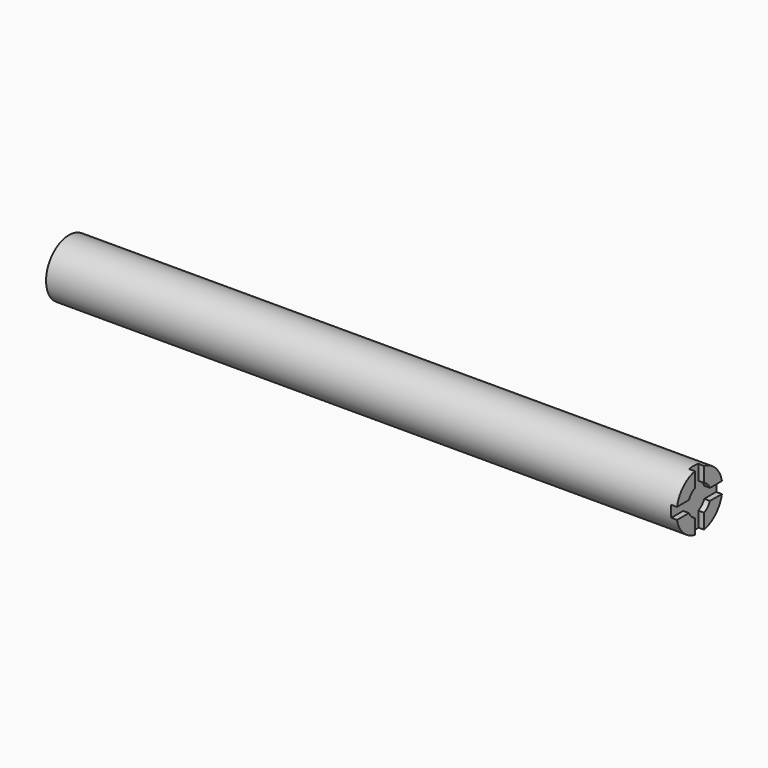
from build123d import *

# Parameters (mm, degrees)
F0_R     = 12.7
F1_DEPTH = 279.4
F3_DEPTH = 2.54


with BuildPart() as f1:
    # F0 (on Right) → F1 (new body)
    with BuildSketch(Plane.YZ):
        Circle(F0_R)
    extrude(amount=F1_DEPTH)

    # F2 (on face) → F3 (cut)
    with BuildSketch(Plane.YZ.offset(279.4)):
        with BuildLine():
            ThreePointArc((-5.8198711326, -2.54), (-6.35, 0), (-5.8198711326, 2.54))
            Line((-5.8198711326, 2.54), (-12.4434078933, 2.54))
            ThreePointArc((-12.4434078933, 2.54), (-12.7, 0), (-12.4434078933, -2.54))
            Line((-12.4434078933, -2.54), (-5.8198711326, -2.54))
        make_face()
        with BuildLine():
            ThreePointArc((-2.54, 5.8198711326), (0, 6.35), (2.54, 5.8198711326))
            Line((2.54, 5.8198711326), (2.54, 12.4434078933))
            ThreePointArc((2.54, 12.4434078933), (0, 12.7), (-2.54, 12.4434078933))
            Line((-2.54, 12.4434078933), (-2.54, 5.8198711326))
        make_face()
        with BuildLine():
            ThreePointArc((5.8198711326, 2.54), (6.2160550871, 1.2973662374), (6.35, 0))
            ThreePointArc((6.35, 0), (6.2160550871, -1.2973662374), (5.8198711326, -2.54))
            Line((5.8198711326, -2.54), (12.4434078933, -2.54))
            ThreePointArc((12.4434078933, -2.54), (12.6356891432, -1.2764638175), (12.7, 0))
            ThreePointArc((12.7, 0), (12.6356891432, 1.2764638175), (12.4434078933, 2.54))
            Line((12.4434078933, 2.54), (5.8198711326, 2.54))
        make_face()
        with BuildLine():
            Line((2.54, -12.4434078933), (2.54, -5.8198711326))
            ThreePointArc((2.54, -5.8198711326), (0, -6.35), (-2.54, -5.8198711326))
            Line((-2.54, -5.8198711326), (-2.54, -12.4434078933))
            ThreePointArc((-2.54, -12.4434078933), (0, -12.7), (2.54, -12.4434078933))
        make_face()
        with BuildLine():
            ThreePointArc((5.8198711326, -2.54), (6.2160550871, -1.2973662374), (6.35, 0))
            ThreePointArc((6.35, 0), (6.2160550871, 1.2973662374), (5.8198711326, 2.54))
            ThreePointArc((5.8198711326, 2.54), (4.4901280605, 4.4901280605), (2.54, 5.8198711326))
            ThreePointArc((2.54, 5.8198711326), (0, 6.35), (-2.54, 5.8198711326))
            ThreePointArc((-2.54, 5.8198711326), (-4.4901280605, 4.4901280605), (-5.8198711326, 2.54))
            ThreePointArc((-5.8198711326, 2.54), (-6.35, 0), (-5.8198711326, -2.54))
            ThreePointArc((-5.8198711326, -2.54), (-4.4901280605, -4.4901280605), (-2.54, -5.8198711326))
            ThreePointArc((-2.54, -5.8198711326), (0, -6.35), (2.54, -5.8198711326))
            ThreePointArc((2.54, -5.8198711326), (4.4901280605, -4.4901280605), (5.8198711326, -2.54))
        make_face()
    extrude(amount=-F3_DEPTH, mode=Mode.SUBTRACT)


solid = f1.part
